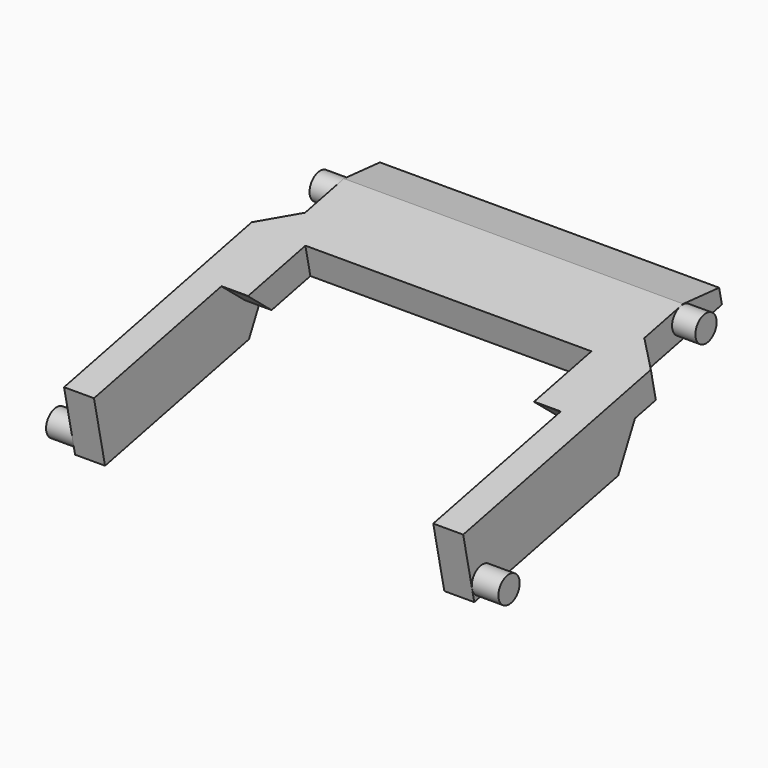
from build123d import *

# Parameters (mm, degrees)
BOX051_W                  = 0.9
BOX051_H                  = 8.1
BOX051_DEPTH              = 0.9
CHAMFER035_SIZE           = 0.89
BOX052_W                  = 0.9
BOX052_H                  = 8.1
BOX052_DEPTH              = 0.9
CHAMFER036_SIZE           = 0.89
BOX053_W                  = 0.8
BOX053_H                  = 2.2
BOX053_DEPTH              = 0.9
CHAMFER037_SIZE2          = 0.71
CHAMFER037_SIZE           = 0.89
BOX054_W                  = 0.8
BOX054_H                  = 2.2
BOX054_DEPTH              = 0.9
CHAMFER038_SIZE2          = 0.71
CHAMFER038_SIZE           = 0.89
BOX062_W                  = 0.9
BOX062_H                  = 6.4
BOX062_DEPTH              = 1.1
CHAMFER039_SIZE2          = 0.87
CHAMFER039_SIZE           = 1.09
BOX063_W                  = 0.9
BOX063_H                  = 6.4
BOX063_DEPTH              = 1.1
CHAMFER040_SIZE2          = 0.87
CHAMFER040_SIZE           = 1.09
CYLINDER017_R             = 0.4
CYLINDER017_DEPTH         = 0.8
CYLINDER018_R             = 0.4
CYLINDER018_DEPTH         = 0.8
CYLINDER019_R             = 0.4
CYLINDER019_DEPTH         = 0.7
CYLINDER020_R             = 0.4
CYLINDER020_DEPTH         = 0.7
BOX050_W                  = 10.2
BOX050_H                  = 3.8
BOX050_DEPTH              = 0.9
CHAMFER034_SIZE2          = 1.3
CHAMFER034_SIZE           = 0.4
FUSION015_PLACEMENT_ANGLE = 12


with BuildPart() as obj1:
    # Box051 → Box051 (new body)
    with BuildSketch(Plane(origin=(-6, -3.9, 1.6), x_dir=(1, 0, 0), z_dir=(0, 0, 1))):
        with Locations((0.45, 4.05)):
            Rectangle(BOX051_W, BOX051_H)
    extrude(amount=BOX051_DEPTH)

    # Chamfer035
    chamfer035_edges = [obj1.edges().sort_by_distance(p)[0] for p in [
        (-6, 4.2, 2.05),
    ]]
    chamfer(chamfer035_edges, length=CHAMFER035_SIZE)


with BuildPart() as obj2:
    # Box052 → Box052 (new body)
    with BuildSketch(Plane(origin=(5.1, -3.9, 1.6), x_dir=(1, 0, 0), z_dir=(0, 0, 1))):
        with Locations((0.45, 4.05)):
            Rectangle(BOX052_W, BOX052_H)
    extrude(amount=BOX052_DEPTH)

    # Chamfer036
    chamfer036_edges = [obj2.edges().sort_by_distance(p)[0] for p in [
        (6, 4.2, 2.05),
    ]]
    chamfer(chamfer036_edges, length=CHAMFER036_SIZE)


with BuildPart() as obj3:
    # Box053 → Box053 (new body)
    with BuildSketch(Plane(origin=(-5.1, 1, 1.6), x_dir=(1, 0, 0), z_dir=(0, 0, 1))):
        with Locations((0.4, 1.1)):
            Rectangle(BOX053_W, BOX053_H)
    extrude(amount=BOX053_DEPTH)

    # Chamfer037
    chamfer037_edges = [obj3.edges().sort_by_distance(p)[0] for p in [
        (-4.7, 1, 1.6),
    ]]
    chamfer037_side = obj3.faces().sort_by_distance((-4.7, 1, 2.05))[0]
    chamfer(chamfer037_edges, length=CHAMFER037_SIZE, length2=CHAMFER037_SIZE2, reference=chamfer037_side)


with BuildPart() as obj4:
    # Box054 → Box054 (new body)
    with BuildSketch(Plane(origin=(4.3, 1, 1.6), x_dir=(1, 0, 0), z_dir=(0, 0, 1))):
        with Locations((0.4, 1.1)):
            Rectangle(BOX054_W, BOX054_H)
    extrude(amount=BOX054_DEPTH)

    # Chamfer038
    chamfer038_edges = [obj4.edges().sort_by_distance(p)[0] for p in [
        (4.7, 1, 1.6),
    ]]
    chamfer038_side = obj4.faces().sort_by_distance((4.7, 1, 2.05))[0]
    chamfer(chamfer038_edges, length=CHAMFER038_SIZE, length2=CHAMFER038_SIZE2, reference=chamfer038_side)


with BuildPart() as obj5:
    # Box062 → Box062 (new body)
    with BuildSketch(Plane(origin=(-6, -3.9, 0.5), x_dir=(1, 0, 0), z_dir=(0, 0, 1))):
        with Locations((0.45, 3.2)):
            Rectangle(BOX062_W, BOX062_H)
    extrude(amount=BOX062_DEPTH)

    # Chamfer039
    chamfer039_edges = [obj5.edges().sort_by_distance(p)[0] for p in [
        (-5.55, 2.5, 0.5),
    ]]
    chamfer039_side = obj5.faces().sort_by_distance((-5.55, 2.5, 1.05))[0]
    chamfer(chamfer039_edges, length=CHAMFER039_SIZE, length2=CHAMFER039_SIZE2, reference=chamfer039_side)


with BuildPart() as obj6:
    # Box063 → Box063 (new body)
    with BuildSketch(Plane(origin=(5.1, -3.9, 0.5), x_dir=(1, 0, 0), z_dir=(0, 0, 1))):
        with Locations((0.45, 3.2)):
            Rectangle(BOX063_W, BOX063_H)
    extrude(amount=BOX063_DEPTH)

    # Chamfer040
    chamfer040_edges = [obj6.edges().sort_by_distance(p)[0] for p in [
        (5.55, 2.5, 0.5),
    ]]
    chamfer040_side = obj6.faces().sort_by_distance((5.55, 2.5, 1.05))[0]
    chamfer(chamfer040_edges, length=CHAMFER040_SIZE, length2=CHAMFER040_SIZE2, reference=chamfer040_side)


with BuildPart() as obj7:
    # Cylinder017 → Cylinder017 (new body)
    with BuildSketch(Plane(origin=(-6.8, -3.5, 0.9), x_dir=(0, 0, -1), z_dir=(1, 0, 0))):
        Circle(CYLINDER017_R)
    extrude(amount=CYLINDER017_DEPTH)


with BuildPart() as obj8:
    # Cylinder018 → Cylinder018 (new body)
    with BuildSketch(Plane(origin=(6, -3.5, 0.9), x_dir=(0, 0, -1), z_dir=(1, 0, 0))):
        Circle(CYLINDER018_R)
    extrude(amount=CYLINDER018_DEPTH)


with BuildPart() as obj9:
    # Cylinder019 → Cylinder019 (new body)
    with BuildSketch(Plane(origin=(-5.8, 5.6, 2.1), x_dir=(0, 0, -1), z_dir=(1, 0, 0))):
        Circle(CYLINDER019_R)
    extrude(amount=CYLINDER019_DEPTH)


with BuildPart() as obj10:
    # Cylinder020 → Cylinder020 (new body)
    with BuildSketch(Plane(origin=(5.1, 5.6, 2.1), x_dir=(0, 0, -1), z_dir=(1, 0, 0))):
        Circle(CYLINDER020_R)
    extrude(amount=CYLINDER020_DEPTH)


with BuildPart() as obj11:
    # Box050 → Box050 (new body)
    with BuildSketch(Plane(origin=(-5.1, 3.2, 1.6), x_dir=(1, 0, 0), z_dir=(0, 0, 1))):
        with Locations((5.1, 1.9)):
            Rectangle(BOX050_W, BOX050_H)
    extrude(amount=BOX050_DEPTH)

    # Chamfer034
    chamfer034_edges = [obj11.edges().sort_by_distance(p)[0] for p in [
        (0, 7, 2.5),
    ]]
    chamfer034_side = obj11.faces().sort_by_distance((0, 7, 2.05))[0]
    chamfer(chamfer034_edges, length=CHAMFER034_SIZE, length2=CHAMFER034_SIZE2, reference=chamfer034_side)

    # Fusion015: union obj1, obj2, obj3, obj4, obj5, obj6, obj7, obj8, obj9, obj10
    add(obj1.part)
    add(obj2.part)
    add(obj3.part)
    add(obj4.part)
    add(obj5.part)
    add(obj6.part)
    add(obj7.part)
    add(obj8.part)
    add(obj9.part)
    add(obj10.part)


with BuildPart() as obj11_1:
    # Fusion015 placement: moved
    add(obj11.part.moved(Location((0, 0, 0.769273))).rotate(Axis((0, 0, 0.769273), (1, 0, 0)), FUSION015_PLACEMENT_ANGLE))


solid = obj11_1.part
